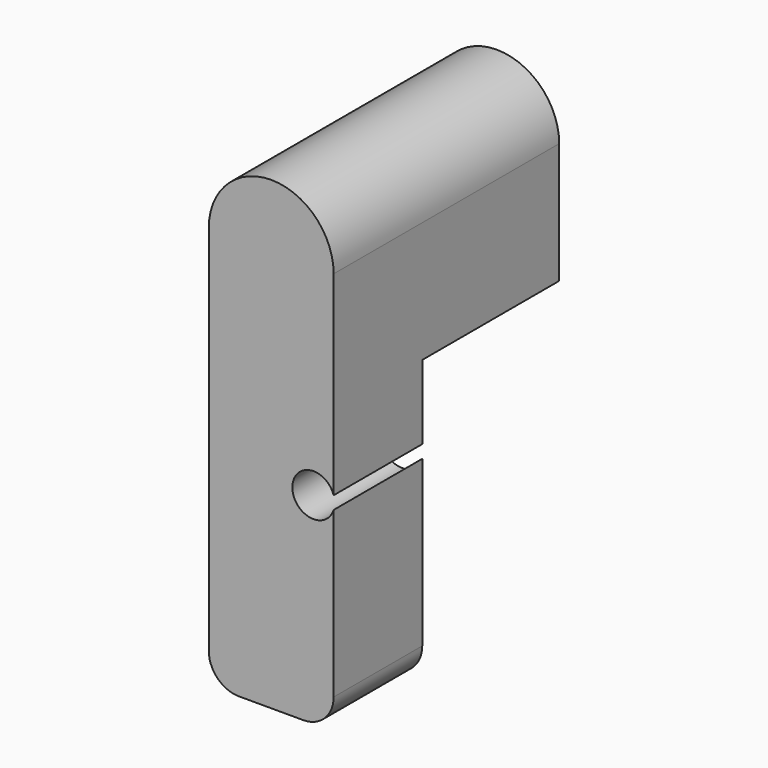
from build123d import *

# Parameters (mm, degrees)
F1_DEPTH = 14
F2_W     = 6.2
F2_H     = 8.5
F3_DEPTH = 14
F6_D     = 2.1
F7_R     = 1.5


with BuildPart() as f1:
    # F0 (on Front) → F1 (new body)
    with BuildSketch(Plane.XZ):
        with BuildLine():
            Line((3.1, -20), (3.1, 0))
            ThreePointArc((3.1, 0), (0, 3.1), (-3.1, 0))
            Line((-3.1, 0), (-3.1, -20))
            Line((-3.1, -20), (3.1, -20))
        make_face()
    extrude(amount=-F1_DEPTH)

    # F2 (on face) → F3 (cut)
    with BuildSketch(Plane(origin=(0, 0, -20), x_dir=(1, 0, 0), z_dir=(0, 0, -1))):
        with Locations((0, -9.75)):
            Rectangle(F2_W, F2_H)
    extrude(amount=-F3_DEPTH, mode=Mode.SUBTRACT)

    # F6 (through all)
    with Locations(Plane.XZ.offset(5)):
        with Locations((2.1, -10)):
            Hole(F6_D / 2)

    # F7
    f7_edges = [f1.edges().sort_by_distance(p)[0] for p in [
        (3.1, 2.75, -20),
        (-3.1, 2.75, -20),
    ]]
    fillet(f7_edges, radius=F7_R)


solid = f1.part
